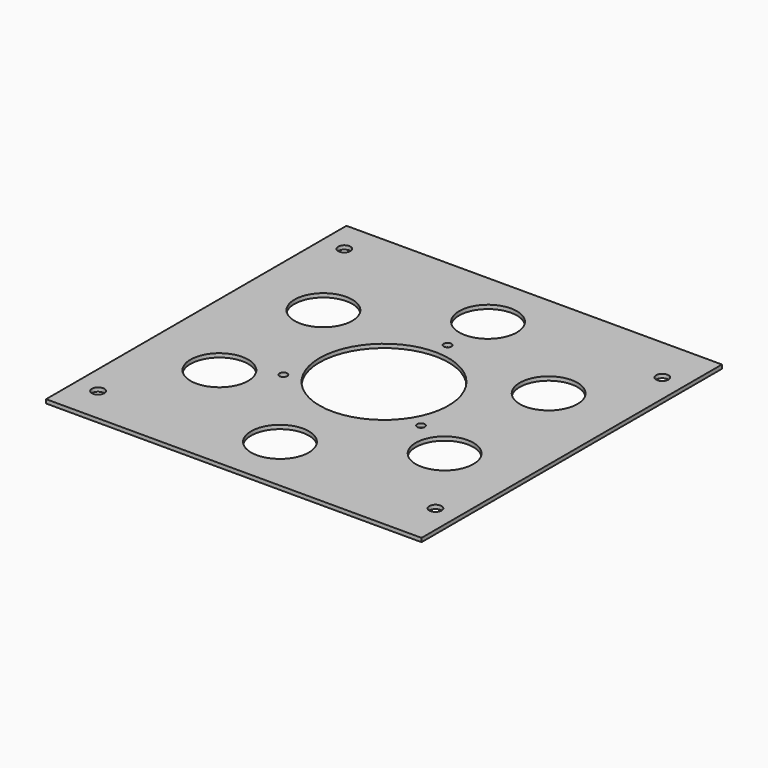
from build123d import *

# Parameters (mm, degrees)
F0_R     = 1.6
F0_R_2   = 7.5
F0_R_3   = 1
F1_DEPTH = 1


with BuildPart() as f1:
    # F0 (on Top) → F1 (new body)
    with BuildSketch(Plane.XY):
        with BuildLine():
            Line((0, 48.8), (0, 0))
            Line((0, 0), (97.6, 0))
            Line((97.6, 0), (97.6, 48.8))
            Line((97.6, 48.8), (65.55, 48.8))
            ThreePointArc((65.55, 48.8), (48.8, 32.05), (32.05, 48.8))
            Line((32.05, 48.8), (0, 48.8))
        make_face()
        with Locations((6, 9.4)):
            Circle(F0_R, mode=Mode.SUBTRACT)
        with Locations((19.528341, 31.9)):
            Circle(F0_R_2, mode=Mode.SUBTRACT)
        with Locations((30.916575, 38.475)):
            Circle(F0_R_3, mode=Mode.SUBTRACT)
        with Locations((48.8, 15)):
            Circle(F0_R_2, mode=Mode.SUBTRACT)
        with Locations((91.7, 11.9)):
            Circle(F0_R, mode=Mode.SUBTRACT)
        with Locations((66.683425, 38.475)):
            Circle(F0_R_3, mode=Mode.SUBTRACT)
        with Locations((78.071659, 31.9)):
            Circle(F0_R_2, mode=Mode.SUBTRACT)
        with BuildLine():
            Line((0, 97.6), (0, 48.8))
            Line((0, 48.8), (32.05, 48.8))
            ThreePointArc((32.05, 48.8), (48.8, 65.55), (65.55, 48.8))
            Line((65.55, 48.8), (97.6, 48.8))
            Line((97.6, 48.8), (97.6, 97.6))
            Line((97.6, 97.6), (0, 97.6))
        make_face()
        with Locations((19.528341, 65.7)):
            Circle(F0_R_2, mode=Mode.SUBTRACT)
        with Locations((6, 89.4)):
            Circle(F0_R, mode=Mode.SUBTRACT)
        with Locations((48.8, 69.45)):
            Circle(F0_R_3, mode=Mode.SUBTRACT)
        with Locations((78.071659, 65.7)):
            Circle(F0_R_2, mode=Mode.SUBTRACT)
        with Locations((48.8, 82.6)):
            Circle(F0_R_2, mode=Mode.SUBTRACT)
        with Locations((91.7, 85.6)):
            Circle(F0_R, mode=Mode.SUBTRACT)
    extrude(amount=F1_DEPTH)


solid = f1.part
